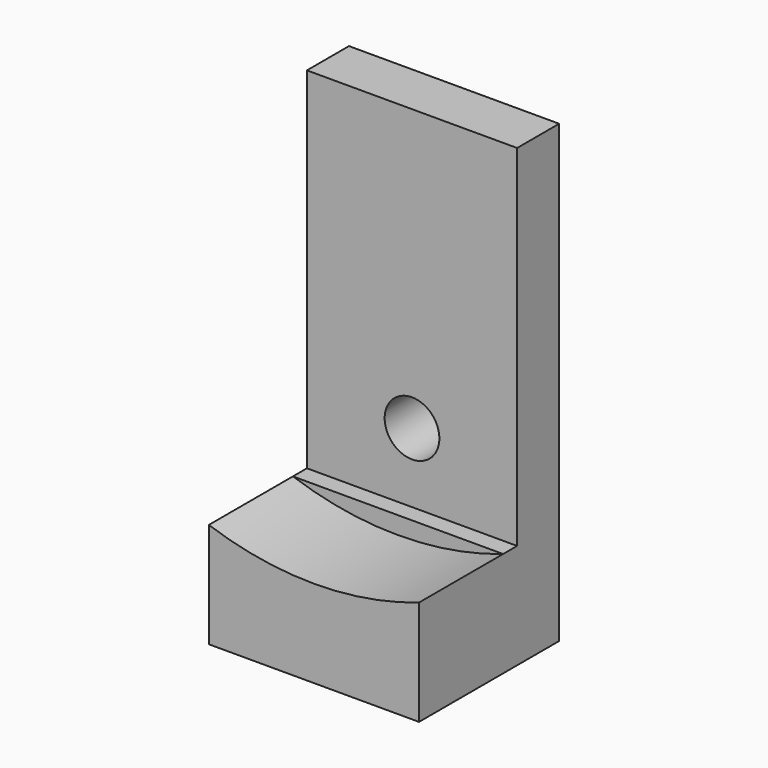
from build123d import *

# Parameters (mm, degrees)
F0_W     = 76.2
F0_H     = 63.5
F1_DEPTH = 38.1
F2_W     = 76.2
F2_H     = 19.05
F7_DEPTH = 127
F4_D     = 19.84248
F6_DEPTH = 38.1


with BuildPart() as f1:
    # F0 (on Top) → F1 (new body)
    with BuildSketch(Plane.XY):
        Rectangle(F0_W, F0_H)
    extrude(amount=F1_DEPTH)

    # F2 (on face) → F7 (join)
    with BuildSketch(Plane.XY.offset(38.1)):
        with Locations((0, 22.225)):
            Rectangle(F2_W, F2_H)
    extrude(amount=F7_DEPTH)

    # F4 (through all)
    with Locations(Plane(origin=(0, 31.75, 0), x_dir=(-1, 0, 0), z_dir=(0, 1, 0))):
        with Locations((0, 63.2342693158)):
            Hole(F4_D / 2)

    # F5 (on face) → F6 (cut, through all)
    with BuildSketch(Plane.XZ.offset(31.75)):
        with BuildLine():
            Line((38.1, 38.1), (-38.1, 38.1))
            ThreePointArc((-38.1, 38.1), (0, 31.7262437458), (38.1, 38.1))
        make_face()
    extrude(amount=-F6_DEPTH, mode=Mode.SUBTRACT)


solid = f1.part
